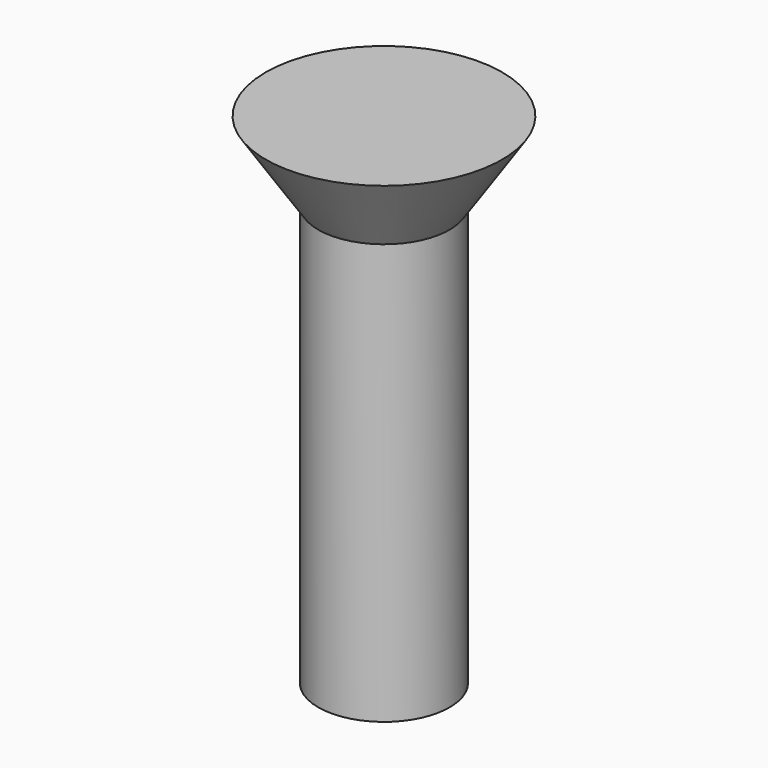
from build123d import *

# Parameters (mm, degrees)
CYLINDER011_R                   = 2.5
CYLINDER011_DEPTH               = 16
FUSION001018017_PLACEMENT_ANGLE = 180


with BuildPart() as cone003:
    # Cone003 → Cone003 (revolve)
    with BuildSketch(Plane(origin=(0, 0, -3), x_dir=(1, 0, 0), z_dir=(0, -1, 0))):
        Polygon((0, 0), (4.5, 0), (2.5, 3), (0, 3), align=None)
    revolve(axis=Axis((0, 0, -3), (0, 0, 1)))


with BuildPart() as obj1:
    # Cylinder011 → Cylinder011 (new body)
    with BuildSketch(Plane.XY):
        Circle(CYLINDER011_R)
    extrude(amount=CYLINDER011_DEPTH)

    # Fusion001018017: union Cone003
    add(cone003.part)


with BuildPart() as obj1_1:
    # Fusion001018017 placement: moved
    add(obj1.part.moved(Location((45, 15, 21))).rotate(Axis((45, 15, 21), (0, 1, 0)), FUSION001018017_PLACEMENT_ANGLE))


solid = obj1_1.part
